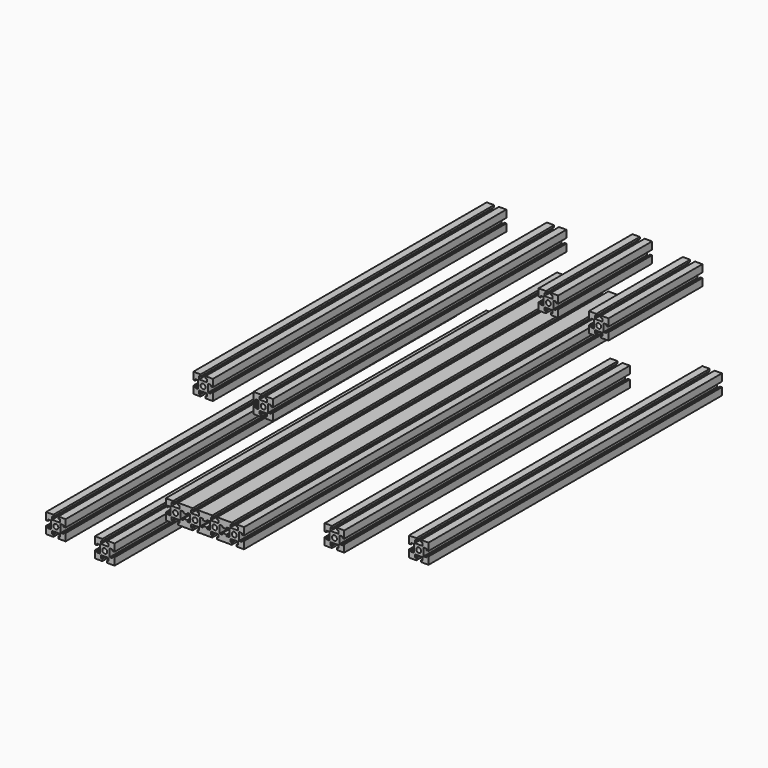
from build123d import *

# Parameters (mm, degrees)
F0_R      = 2.5
F1_DEPTH  = 375
F2_R      = 2.5
F3_DEPTH  = 365
F4_R      = 2.5
F5_DEPTH  = 120
F6_R      = 2.5
F7_DEPTH  = 375
F8_R      = 2.5
F9_DEPTH  = 500
F10_R     = 2.5
F11_DEPTH = 500


with BuildPart() as f1:
    # F0 (on Front) → F1 (new body)
    with BuildSketch(Plane.XZ):
        Polygon((-52.8749232739, 62.9463752072), (-60.3749232739, 62.9463752072), (-60.3749232739, 55.4463752072), (-58.3749232739, 55.4463752072), (-58.3749232739, 56.9463752072), (-55.3749232739, 56.9463752072), (-55.3749232739, 52.9463752072), (-55.3749232739, 48.9463752072), (-58.3749232739, 48.9463752072), (-58.3749232739, 50.4463752072), (-60.3749232739, 50.4463752072), (-60.3749232739, 42.9463752072), (-52.8749232739, 42.9463752072), (-52.8749232739, 44.9463752072), (-54.3749232739, 44.9463752072), (-54.3749232739, 47.9463752072), (-50.3749232739, 47.9463752072), (-46.3749232739, 47.9463752072), (-46.3749232739, 44.9463752072), (-47.8749232739, 44.9463752072), (-47.8749232739, 42.9463752072), (-40.3749232739, 42.9463752072), (-40.3749232739, 50.4463752072), (-42.3749232739, 50.4463752072), (-42.3749232739, 48.9463752072), (-45.3749232739, 48.9463752072), (-45.3749232739, 52.9463752072), (-45.3749232739, 56.9463752072), (-42.3749232739, 56.9463752072), (-42.3749232739, 55.4463752072), (-40.3749232739, 55.4463752072), (-40.3749232739, 62.9463752072), (-47.8749232739, 62.9463752072), (-47.8749232739, 60.9463752072), (-46.3749232739, 60.9463752072), (-46.3749232739, 57.9463752072), (-50.3749232739, 57.9463752072), (-54.3749232739, 57.9463752072), (-54.3749232739, 60.9463752072), (-52.8749232739, 60.9463752072), align=None)
        with Locations((-50.3749232739, 52.9463752072)):
            Circle(F0_R, mode=Mode.SUBTRACT)
    extrude(amount=F1_DEPTH)


with BuildPart() as f1b:
    # F0 (on Front) → F1, piece 2 (new body)
    with BuildSketch(Plane.XZ):
        Polygon((8.5850941102, 64.7866674621), (1.0850941102, 64.7866674621), (1.0850941102, 57.2866674621), (3.0850941102, 57.2866674621), (3.0850941102, 58.7866674621), (6.0850941102, 58.7866674621), (6.0850941102, 54.7866674621), (6.0850941102, 50.7866674621), (3.0850941102, 50.7866674621), (3.0850941102, 52.2866674621), (1.0850941102, 52.2866674621), (1.0850941102, 44.7866674621), (8.5850941102, 44.7866674621), (8.5850941102, 46.7866674621), (7.0850941102, 46.7866674621), (7.0850941102, 49.7866674621), (11.0850941102, 49.7866674621), (15.0850941102, 49.7866674621), (15.0850941102, 46.7866674621), (13.5850941102, 46.7866674621), (13.5850941102, 44.7866674621), (21.0850941102, 44.7866674621), (21.0850941102, 52.2866674621), (19.0850941102, 52.2866674621), (19.0850941102, 50.7866674621), (16.0850941102, 50.7866674621), (16.0850941102, 54.7866674621), (16.0850941102, 58.7866674621), (19.0850941102, 58.7866674621), (19.0850941102, 57.2866674621), (21.0850941102, 57.2866674621), (21.0850941102, 64.7866674621), (13.5850941102, 64.7866674621), (13.5850941102, 62.7866674621), (15.0850941102, 62.7866674621), (15.0850941102, 59.7866674621), (11.0850941102, 59.7866674621), (7.0850941102, 59.7866674621), (7.0850941102, 62.7866674621), (8.5850941102, 62.7866674621), align=None)
        with Locations((11.0850941102, 54.7866674621)):
            Circle(F0_R, mode=Mode.SUBTRACT)
    extrude(amount=F1_DEPTH)


with BuildPart() as f3:
    # F2 (on Front) → F3 (new body)
    with BuildSketch(Plane.XZ):
        Polygon((5.3260886195, -29.7634280364), (-2.1739113805, -29.7634280364), (-2.1739113805, -37.2634280364), (-0.1739113805, -37.2634280364), (-0.1739113805, -35.7634280364), (2.8260886195, -35.7634280364), (2.8260886195, -39.7634280364), (2.8260886195, -43.7634280364), (-0.1739113805, -43.7634280364), (-0.1739113805, -42.2634280364), (-2.1739113805, -42.2634280364), (-2.1739113805, -49.7634280364), (5.3260886195, -49.7634280364), (5.3260886195, -47.7634280364), (3.8260886195, -47.7634280364), (3.8260886195, -44.7634280364), (7.8260886195, -44.7634280364), (11.8260886195, -44.7634280364), (11.8260886195, -47.7634280364), (10.3260886195, -47.7634280364), (10.3260886195, -49.7634280364), (17.8260886195, -49.7634280364), (17.8260886195, -42.2634280364), (15.8260886195, -42.2634280364), (15.8260886195, -43.7634280364), (12.8260886195, -43.7634280364), (12.8260886195, -39.7634280364), (12.8260886195, -35.7634280364), (15.8260886195, -35.7634280364), (15.8260886195, -37.2634280364), (17.8260886195, -37.2634280364), (17.8260886195, -29.7634280364), (10.3260886195, -29.7634280364), (10.3260886195, -31.7634280364), (11.8260886195, -31.7634280364), (11.8260886195, -34.7634280364), (7.8260886195, -34.7634280364), (3.8260886195, -34.7634280364), (3.8260886195, -31.7634280364), (5.3260886195, -31.7634280364), align=None)
        with Locations((7.8260886195, -39.7634280364)):
            Circle(F2_R, mode=Mode.SUBTRACT)
    extrude(amount=F3_DEPTH)


with BuildPart() as f3b:
    # F2 (on Front) → F3, piece 2 (new body)
    with BuildSketch(Plane.XZ):
        Polygon((73.4532918866, -36.4724337201), (65.9532918866, -36.4724337201), (65.9532918866, -43.9724337201), (67.9532918866, -43.9724337201), (67.9532918866, -42.4724337201), (70.9532918866, -42.4724337201), (70.9532918866, -46.4724337201), (70.9532918866, -50.4724337201), (67.9532918866, -50.4724337201), (67.9532918866, -48.9724337201), (65.9532918866, -48.9724337201), (65.9532918866, -56.4724337201), (73.4532918866, -56.4724337201), (73.4532918866, -54.4724337201), (71.9532918866, -54.4724337201), (71.9532918866, -51.4724337201), (75.9532918866, -51.4724337201), (79.9532918866, -51.4724337201), (79.9532918866, -54.4724337201), (78.4532918866, -54.4724337201), (78.4532918866, -56.4724337201), (85.9532918866, -56.4724337201), (85.9532918866, -48.9724337201), (83.9532918866, -48.9724337201), (83.9532918866, -50.4724337201), (80.9532918866, -50.4724337201), (80.9532918866, -46.4724337201), (80.9532918866, -42.4724337201), (83.9532918866, -42.4724337201), (83.9532918866, -43.9724337201), (85.9532918866, -43.9724337201), (85.9532918866, -36.4724337201), (78.4532918866, -36.4724337201), (78.4532918866, -38.4724337201), (79.9532918866, -38.4724337201), (79.9532918866, -41.4724337201), (75.9532918866, -41.4724337201), (71.9532918866, -41.4724337201), (71.9532918866, -38.4724337201), (73.4532918866, -38.4724337201), align=None)
        with Locations((75.9532918866, -46.4724337201)):
            Circle(F2_R, mode=Mode.SUBTRACT)
    extrude(amount=F3_DEPTH)


with BuildPart() as f5:
    # F4 (on Front) → F5 (new body)
    with BuildSketch(Plane.XZ):
        Polygon((96.1722280915, 82.7807844539), (88.6722280915, 82.7807844539), (88.6722280915, 75.2807844539), (90.6722280915, 75.2807844539), (90.6722280915, 76.7807844539), (93.6722280915, 76.7807844539), (93.6722280915, 72.7807844539), (93.6722280915, 68.7807844539), (90.6722280915, 68.7807844539), (90.6722280915, 70.2807844539), (88.6722280915, 70.2807844539), (88.6722280915, 62.7807844539), (96.1722280915, 62.7807844539), (96.1722280915, 64.7807844539), (94.6722280915, 64.7807844539), (94.6722280915, 67.7807844539), (98.6722280915, 67.7807844539), (102.6722280915, 67.7807844539), (102.6722280915, 64.7807844539), (101.1722280915, 64.7807844539), (101.1722280915, 62.7807844539), (108.6722280915, 62.7807844539), (108.6722280915, 70.2807844539), (106.6722280915, 70.2807844539), (106.6722280915, 68.7807844539), (103.6722280915, 68.7807844539), (103.6722280915, 72.7807844539), (103.6722280915, 76.7807844539), (106.6722280915, 76.7807844539), (106.6722280915, 75.2807844539), (108.6722280915, 75.2807844539), (108.6722280915, 82.7807844539), (101.1722280915, 82.7807844539), (101.1722280915, 80.7807844539), (102.6722280915, 80.7807844539), (102.6722280915, 77.7807844539), (98.6722280915, 77.7807844539), (94.6722280915, 77.7807844539), (94.6722280915, 80.7807844539), (96.1722280915, 80.7807844539), align=None)
        with Locations((98.6722280915, 72.7807844539)):
            Circle(F4_R, mode=Mode.SUBTRACT)
    extrude(amount=F5_DEPTH)


with BuildPart() as f5b:
    # F4 (on Front) → F5, piece 2 (new body)
    with BuildSketch(Plane.XZ):
        Polygon((147.6185914214, 78.9711386819), (140.1185914214, 78.9711386819), (140.1185914214, 71.4711386819), (142.1185914214, 71.4711386819), (142.1185914214, 72.9711386819), (145.1185914214, 72.9711386819), (145.1185914214, 68.9711386819), (145.1185914214, 64.9711386819), (142.1185914214, 64.9711386819), (142.1185914214, 66.4711386819), (140.1185914214, 66.4711386819), (140.1185914214, 58.9711386819), (147.6185914214, 58.9711386819), (147.6185914214, 60.9711386819), (146.1185914214, 60.9711386819), (146.1185914214, 63.9711386819), (150.1185914214, 63.9711386819), (154.1185914214, 63.9711386819), (154.1185914214, 60.9711386819), (152.6185914214, 60.9711386819), (152.6185914214, 58.9711386819), (160.1185914214, 58.9711386819), (160.1185914214, 66.4711386819), (158.1185914214, 66.4711386819), (158.1185914214, 64.9711386819), (155.1185914214, 64.9711386819), (155.1185914214, 68.9711386819), (155.1185914214, 72.9711386819), (158.1185914214, 72.9711386819), (158.1185914214, 71.4711386819), (160.1185914214, 71.4711386819), (160.1185914214, 78.9711386819), (152.6185914214, 78.9711386819), (152.6185914214, 76.9711386819), (154.1185914214, 76.9711386819), (154.1185914214, 73.9711386819), (150.1185914214, 73.9711386819), (146.1185914214, 73.9711386819), (146.1185914214, 76.9711386819), (147.6185914214, 76.9711386819), align=None)
        with Locations((150.1185914214, 68.9711386819)):
            Circle(F4_R, mode=Mode.SUBTRACT)
    extrude(amount=F5_DEPTH)


with BuildPart() as f7:
    # F6 (on Front) → F7 (new body)
    with BuildSketch(Plane.XZ):
        Polygon((167.6330562766, -12.7479410808), (160.1330562766, -12.7479410808), (160.1330562766, -20.2479410808), (162.1330562766, -20.2479410808), (162.1330562766, -18.7479410808), (165.1330562766, -18.7479410808), (165.1330562766, -22.7479410808), (165.1330562766, -26.7479410808), (162.1330562766, -26.7479410808), (162.1330562766, -25.2479410808), (160.1330562766, -25.2479410808), (160.1330562766, -32.7479410808), (167.6330562766, -32.7479410808), (167.6330562766, -30.7479410808), (166.1330562766, -30.7479410808), (166.1330562766, -27.7479410808), (170.1330562766, -27.7479410808), (174.1330562766, -27.7479410808), (174.1330562766, -30.7479410808), (172.6330562766, -30.7479410808), (172.6330562766, -32.7479410808), (180.1330562766, -32.7479410808), (180.1330562766, -25.2479410808), (178.1330562766, -25.2479410808), (178.1330562766, -26.7479410808), (175.1330562766, -26.7479410808), (175.1330562766, -22.7479410808), (175.1330562766, -18.7479410808), (178.1330562766, -18.7479410808), (178.1330562766, -20.2479410808), (180.1330562766, -20.2479410808), (180.1330562766, -12.7479410808), (172.6330562766, -12.7479410808), (172.6330562766, -14.7479410808), (174.1330562766, -14.7479410808), (174.1330562766, -17.7479410808), (170.1330562766, -17.7479410808), (166.1330562766, -17.7479410808), (166.1330562766, -14.7479410808), (167.6330562766, -14.7479410808), align=None)
        with Locations((170.1330562766, -22.7479410808)):
            Circle(F6_R, mode=Mode.SUBTRACT)
    extrude(amount=F7_DEPTH)


with BuildPart() as f9:
    # F8 (on Front) → F9 (new body)
    with BuildSketch(Plane.XZ):
        Polygon((-103.4159142439, -28.9563178162), (-110.9159142439, -28.9563178162), (-110.9159142439, -36.4563178162), (-108.9159142439, -36.4563178162), (-108.9159142439, -34.9563178162), (-105.9159142439, -34.9563178162), (-105.9159142439, -38.9563178162), (-105.9159142439, -42.9563178162), (-108.9159142439, -42.9563178162), (-108.9159142439, -41.4563178162), (-110.9159142439, -41.4563178162), (-110.9159142439, -48.9563178162), (-103.4159142439, -48.9563178162), (-103.4159142439, -46.9563178162), (-104.9159142439, -46.9563178162), (-104.9159142439, -43.9563178162), (-100.9159142439, -43.9563178162), (-96.9159142439, -43.9563178162), (-96.9159142439, -46.9563178162), (-98.4159142439, -46.9563178162), (-98.4159142439, -48.9563178162), (-90.9159142439, -48.9563178162), (-90.9159142439, -41.4563178162), (-92.9159142439, -41.4563178162), (-92.9159142439, -42.9563178162), (-95.9159142439, -42.9563178162), (-95.9159142439, -38.9563178162), (-95.9159142439, -34.9563178162), (-92.9159142439, -34.9563178162), (-92.9159142439, -36.4563178162), (-90.9159142439, -36.4563178162), (-90.9159142439, -28.9563178162), (-98.4159142439, -28.9563178162), (-98.4159142439, -30.9563178162), (-96.9159142439, -30.9563178162), (-96.9159142439, -33.9563178162), (-100.9159142439, -33.9563178162), (-104.9159142439, -33.9563178162), (-104.9159142439, -30.9563178162), (-103.4159142439, -30.9563178162), align=None)
        with Locations((-100.9159142439, -38.9563178162)):
            Circle(F8_R, mode=Mode.SUBTRACT)
    extrude(amount=F9_DEPTH)


with BuildPart() as f9b:
    # F8 (on Front) → F9, piece 2 (new body)
    with BuildSketch(Plane.XZ):
        Polygon((-53.4138571386, -34.5557085316), (-60.9138571386, -34.5557085316), (-60.9138571386, -42.0557085316), (-58.9138571386, -42.0557085316), (-58.9138571386, -40.5557085316), (-55.9138571386, -40.5557085316), (-55.9138571386, -44.5557085316), (-55.9138571386, -48.5557085316), (-58.9138571386, -48.5557085316), (-58.9138571386, -47.0557085316), (-60.9138571386, -47.0557085316), (-60.9138571386, -54.5557085316), (-53.4138571386, -54.5557085316), (-53.4138571386, -52.5557085316), (-54.9138571386, -52.5557085316), (-54.9138571386, -49.5557085316), (-50.9138571386, -49.5557085316), (-46.9138571386, -49.5557085316), (-46.9138571386, -52.5557085316), (-48.4138571386, -52.5557085316), (-48.4138571386, -54.5557085316), (-40.9138571386, -54.5557085316), (-40.9138571386, -47.0557085316), (-42.9138571386, -47.0557085316), (-42.9138571386, -48.5557085316), (-45.9138571386, -48.5557085316), (-45.9138571386, -44.5557085316), (-45.9138571386, -40.5557085316), (-42.9138571386, -40.5557085316), (-42.9138571386, -42.0557085316), (-40.9138571386, -42.0557085316), (-40.9138571386, -34.5557085316), (-48.4138571386, -34.5557085316), (-48.4138571386, -36.5557085316), (-46.9138571386, -36.5557085316), (-46.9138571386, -39.5557085316), (-50.9138571386, -39.5557085316), (-54.9138571386, -39.5557085316), (-54.9138571386, -36.5557085316), (-53.4138571386, -36.5557085316), align=None)
        with Locations((-50.9138571386, -44.5557085316)):
            Circle(F8_R, mode=Mode.SUBTRACT)
    extrude(amount=F9_DEPTH)


with BuildPart() as f11:
    # F10 (on Front) → F11 (new body)
    with BuildSketch(Plane.XZ):
        Polygon((18.9838051881, 23.1951516975), (11.4838051881, 23.1951516975), (11.4838051881, 15.6951516975), (13.4838051881, 15.6951516975), (13.4838051881, 17.1951516975), (16.4838051881, 17.1951516975), (16.4838051881, 13.1951516975), (16.4838051881, 9.1951516975), (13.4838051881, 9.1951516975), (13.4838051881, 10.6951516975), (11.4838051881, 10.6951516975), (11.4838051881, 3.1951516975), (18.9838051881, 3.1951516975), (18.9838051881, 5.1951516975), (17.4838051881, 5.1951516975), (17.4838051881, 8.1951516975), (21.4838051881, 8.1951516975), (25.4838051881, 8.1951516975), (25.4838051881, 5.1951516975), (23.9838051881, 5.1951516975), (23.9838051881, 3.1951516975), (31.4838051881, 3.1951516975), (38.9838051881, 3.1951516975), (38.9838051881, 5.1951516975), (37.4838051881, 5.1951516975), (37.4838051881, 8.1951516975), (41.4838051881, 8.1951516975), (45.4838051881, 8.1951516975), (45.4838051881, 5.1951516975), (43.9838051881, 5.1951516975), (43.9838051881, 3.1951516975), (51.4838051881, 3.1951516975), (58.9838051881, 3.1951516975), (58.9838051881, 5.1951516975), (57.4838051881, 5.1951516975), (57.4838051881, 8.1951516975), (61.4838051881, 8.1951516975), (65.4838051881, 8.1951516975), (65.4838051881, 5.1951516975), (63.9838051881, 5.1951516975), (63.9838051881, 3.1951516975), (71.4838051881, 3.1951516975), (78.9838051881, 3.1951516975), (78.9838051881, 5.1951516975), (77.4838051881, 5.1951516975), (77.4838051881, 8.1951516975), (81.4838051881, 8.1951516975), (85.4838051881, 8.1951516975), (85.4838051881, 5.1951516975), (83.9838051881, 5.1951516975), (83.9838051881, 3.1951516975), (91.4838051881, 3.1951516975), (91.4838051881, 10.6951516975), (89.4838051881, 10.6951516975), (89.4838051881, 9.1951516975), (86.4838051881, 9.1951516975), (86.4838051881, 13.1951516975), (86.4838051881, 17.1951516975), (89.4838051881, 17.1951516975), (89.4838051881, 15.6951516975), (91.4838051881, 15.6951516975), (91.4838051881, 23.1951516975), (83.9838051881, 23.1951516975), (83.9838051881, 21.1951516975), (85.4838051881, 21.1951516975), (85.4838051881, 18.1951516975), (81.4838051881, 18.1951516975), (77.4838051881, 18.1951516975), (77.4838051881, 21.1951516975), (78.9838051881, 21.1951516975), (78.9838051881, 23.1951516975), (71.4838051881, 23.1951516975), (63.9838051881, 23.1951516975), (63.9838051881, 21.1951516975), (65.4838051881, 21.1951516975), (65.4838051881, 18.1951516975), (61.4838051881, 18.1951516975), (57.4838051881, 18.1951516975), (57.4838051881, 21.1951516975), (58.9838051881, 21.1951516975), (58.9838051881, 23.1951516975), (51.4838051881, 23.1951516975), (43.9838051881, 23.1951516975), (43.9838051881, 21.1951516975), (45.4838051881, 21.1951516975), (45.4838051881, 18.1951516975), (41.4838051881, 18.1951516975), (37.4838051881, 18.1951516975), (37.4838051881, 21.1951516975), (38.9838051881, 21.1951516975), (38.9838051881, 23.1951516975), (31.4838051881, 23.1951516975), (23.9838051881, 23.1951516975), (23.9838051881, 21.1951516975), (25.4838051881, 21.1951516975), (25.4838051881, 18.1951516975), (21.4838051881, 18.1951516975), (17.4838051881, 18.1951516975), (17.4838051881, 21.1951516975), (18.9838051881, 21.1951516975), align=None)
        Polygon((31.4838051881, 10.6951516975), (29.4838051881, 10.6951516975), (29.4838051881, 9.1951516975), (26.4838051881, 9.1951516975), (26.4838051881, 13.1951516975), (26.4838051881, 17.1951516975), (29.4838051881, 17.1951516975), (29.4838051881, 15.6951516975), (31.4838051881, 15.6951516975), (33.4838051881, 15.6951516975), (33.4838051881, 17.1951516975), (36.4838051881, 17.1951516975), (36.4838051881, 13.1951516975), (36.4838051881, 9.1951516975), (33.4838051881, 9.1951516975), (33.4838051881, 10.6951516975), align=None, mode=Mode.SUBTRACT)
        Polygon((51.4838051881, 10.6951516975), (49.4838051881, 10.6951516975), (49.4838051881, 9.1951516975), (46.4838051881, 9.1951516975), (46.4838051881, 13.1951516975), (46.4838051881, 17.1951516975), (49.4838051881, 17.1951516975), (49.4838051881, 15.6951516975), (51.4838051881, 15.6951516975), (53.4838051881, 15.6951516975), (53.4838051881, 17.1951516975), (56.4838051881, 17.1951516975), (56.4838051881, 13.1951516975), (56.4838051881, 9.1951516975), (53.4838051881, 9.1951516975), (53.4838051881, 10.6951516975), align=None, mode=Mode.SUBTRACT)
        Polygon((71.4838051881, 10.6951516975), (69.4838051881, 10.6951516975), (69.4838051881, 9.1951516975), (66.4838051881, 9.1951516975), (66.4838051881, 13.1951516975), (66.4838051881, 17.1951516975), (69.4838051881, 17.1951516975), (69.4838051881, 15.6951516975), (71.4838051881, 15.6951516975), (73.4838051881, 15.6951516975), (73.4838051881, 17.1951516975), (76.4838051881, 17.1951516975), (76.4838051881, 13.1951516975), (76.4838051881, 9.1951516975), (73.4838051881, 9.1951516975), (73.4838051881, 10.6951516975), align=None, mode=Mode.SUBTRACT)
        with Locations((21.4838051881, 13.1951516975)):
            Circle(F10_R, mode=Mode.SUBTRACT)
        with Locations((41.4838051881, 13.1951516975)):
            Circle(F10_R, mode=Mode.SUBTRACT)
        with Locations((61.4838051881, 13.1951516975)):
            Circle(F10_R, mode=Mode.SUBTRACT)
        with Locations((81.4838051881, 13.1951516975)):
            Circle(F10_R, mode=Mode.SUBTRACT)
    extrude(amount=F11_DEPTH)


solid = Compound([f1.part, f1b.part, f3.part, f3b.part, f5.part, f5b.part, f7.part, f9.part, f9b.part, f11.part])
